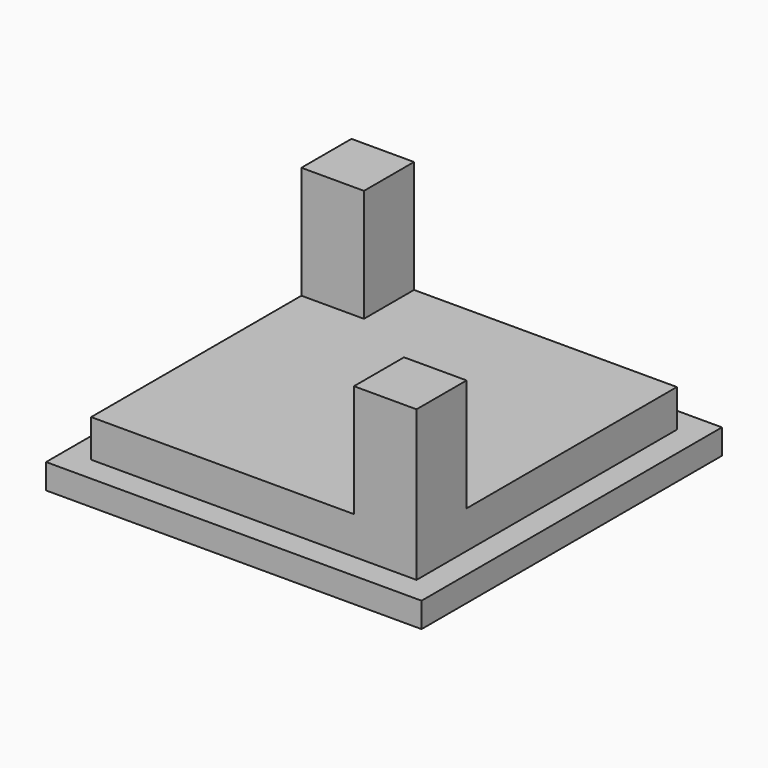
from build123d import *

# Parameters (mm, degrees)
BOX013_W     = 26
BOX013_H     = 26
BOX013_DEPTH = 3
BOX014_W     = 5
BOX014_H     = 5
BOX014_DEPTH = 9
BOX012_W     = 30
BOX012_H     = 30
BOX012_DEPTH = 2
BOX015_W     = 5
BOX015_H     = 5
BOX015_DEPTH = 9


with BuildPart() as obj1:
    # Box013 → Box013 (new body)
    with BuildSketch(Plane(origin=(-13, -13, -10), x_dir=(1, 0, 0), z_dir=(0, 0, 1))):
        with Locations((13, 13)):
            Rectangle(BOX013_W, BOX013_H)
    extrude(amount=BOX013_DEPTH)


with BuildPart() as obj2:
    # Box014 → Box014 (new body)
    with BuildSketch(Plane(origin=(-13, 8, -7), x_dir=(1, 0, 0), z_dir=(0, 0, 1))):
        with Locations((2.5, 2.5)):
            Rectangle(BOX014_W, BOX014_H)
    extrude(amount=BOX014_DEPTH)


with BuildPart() as obj3:
    # Box012 → Box012 (new body)
    with BuildSketch(Plane(origin=(-15, -15, -12), x_dir=(1, 0, 0), z_dir=(0, 0, 1))):
        with Locations((15, 15)):
            Rectangle(BOX012_W, BOX012_H)
    extrude(amount=BOX012_DEPTH)


with BuildPart() as fusion004:
    # Box015 → Box015 (new body)
    with BuildSketch(Plane(origin=(8, -13, -7), x_dir=(1, 0, 0), z_dir=(0, 0, 1))):
        with Locations((2.5, 2.5)):
            Rectangle(BOX015_W, BOX015_H)
    extrude(amount=BOX015_DEPTH)

    # Fusion004: union obj1, obj2, obj3
    add(obj1.part)
    add(obj2.part)
    add(obj3.part)


solid = fusion004.part
